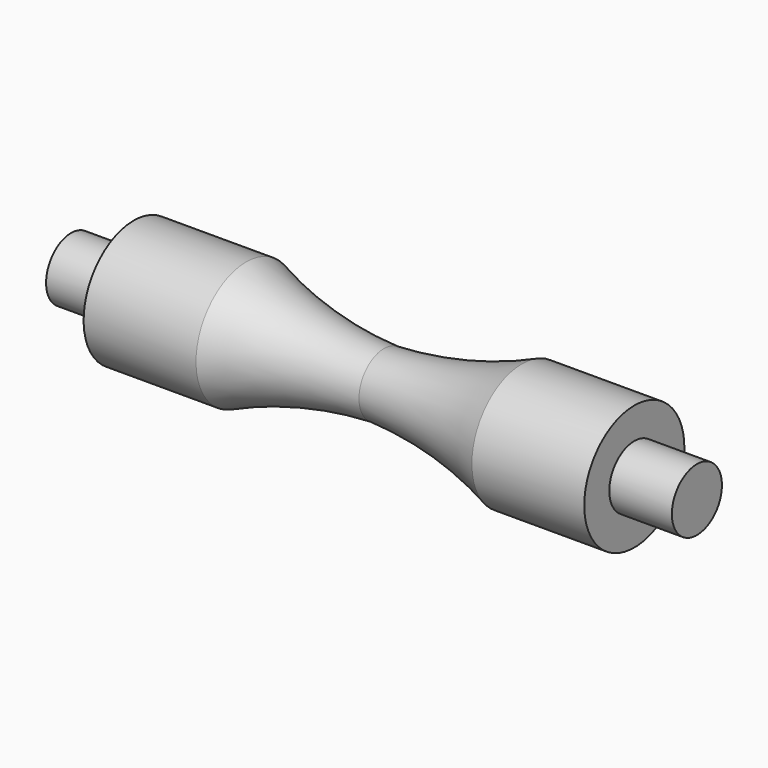
from build123d import *


with BuildPart() as f1:
    # F0 (on Front) → F1 (revolve)
    with BuildSketch(Plane.XZ):
        with BuildLine():
            Line((-24.8491521925, 5), (-24.8491521925, 0))
            Line((-24.8491521925, 0), (25.1508478075, 0))
            Line((25.1508478075, 0), (25.1508478075, 5))
            ThreePointArc((25.1508478075, 5), (13.8989522224, 6.484194455), (3.1078865286, 10))
            Line((3.1078865286, 10), (-14.8491521925, 10))
            Line((-14.8491521925, 10), (-14.8491521925, 5))
            Line((-14.8491521925, 5), (-24.8491521925, 5))
        make_face()
    revolve(axis=Axis((0.1508478075, 0, 0), (-1, 0, 0)))

    # F2: F1 across face


with BuildPart() as f1_1:
    add(f1.part)
    add(f1.part.mirror(Plane.YZ.offset(25.1508478075)))


solid = f1_1.part
